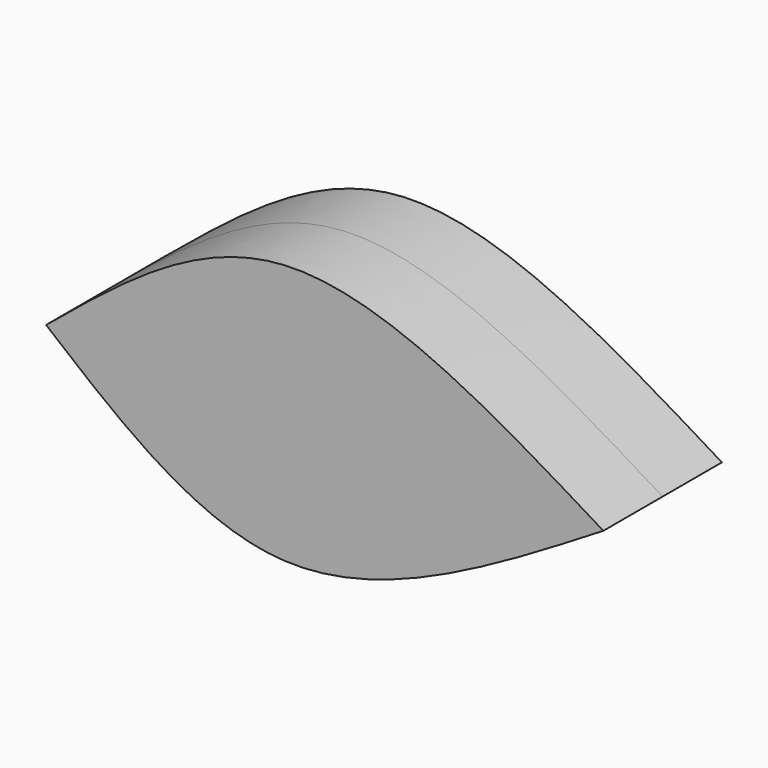
from build123d import *

# Parameters (mm, degrees)
F1_DEPTH = 7.5


with BuildPart() as f1:
    # F0 (on Front) → F1 (new body, symmetric)
    with BuildSketch(Plane.XZ):
        with BuildLine():
            Line((73.1659159064, 0), (16.7522765696, 0))
            add(Edge.make_bspline(
                [(16.7522765696, 0), (24.4091393077, -6.3337984634), (40.7082921589, -19.8165462695), (61.9192450057, -6.8664969443), (73.1659159064, 0)],
                knots=[0, 0, 0, 0, 0.4697705953, 1, 1, 1, 1], degree=3))
        make_face()
        with BuildLine():
            add(Edge.make_bspline(
                [(16.7522765696, 0), (24.4091393077, 6.3337984634), (40.7082921589, 19.8165462695), (61.9192450057, 6.8664969443), (73.1659159064, 0)],
                knots=[0, 0, 0, 0, 0.4697705953, 1, 1, 1, 1], degree=3))
            Line((16.7522765696, 0), (73.1659159064, 0))
        make_face()
    extrude(amount=F1_DEPTH, both=True)


solid = f1.part
